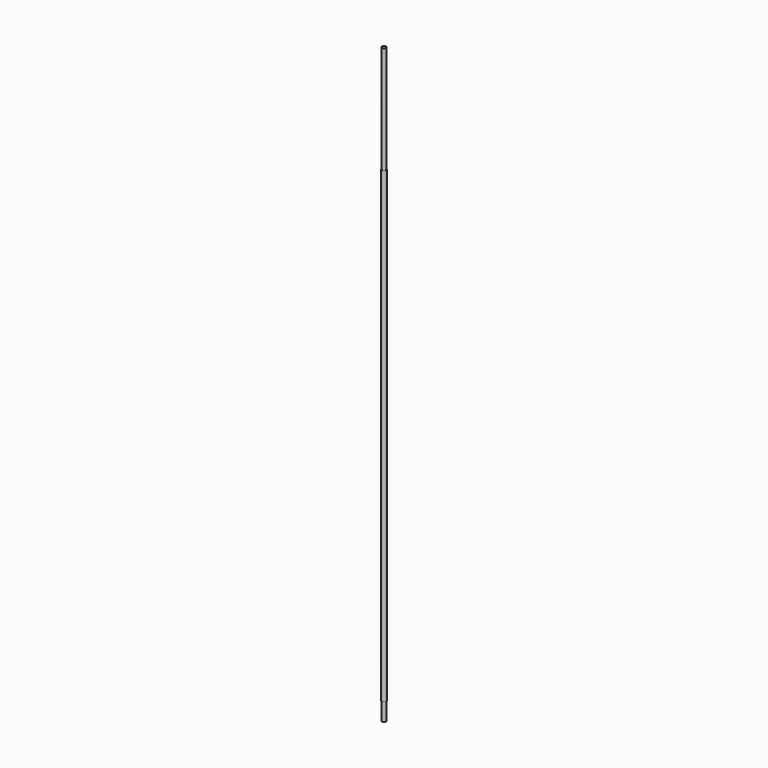
from build123d import *

# Parameters (mm, degrees)
CYLINDER_R      = 4.7625
CYLINDER_DEPTH  = 1219.2
SKETCH_R        = 6
SKETCH_R_2      = 4
POCKET_DEPTH    = 37
SKETCH001_R     = 6
SKETCH001_R_2   = 4
POCKET001_DEPTH = 221


with BuildPart() as part:
    # Cylinder → Cylinder (new body)
    with BuildSketch(Plane.XY):
        Circle(CYLINDER_R)
    extrude(amount=CYLINDER_DEPTH)

    # Sketch → Pocket (cut)
    with BuildSketch(Plane(origin=(0, 0, 0), x_dir=(1, 0, 0), z_dir=(0, 0, -1))):
        Circle(SKETCH_R)
        Circle(SKETCH_R_2, mode=Mode.SUBTRACT)
    extrude(amount=-POCKET_DEPTH, mode=Mode.SUBTRACT)

    # Sketch001 → Pocket001 (cut)
    with BuildSketch(Plane.XY.offset(1219.2)):
        Circle(SKETCH001_R)
        Circle(SKETCH001_R_2, mode=Mode.SUBTRACT)
    extrude(amount=-POCKET001_DEPTH, mode=Mode.SUBTRACT)


solid = part.part
